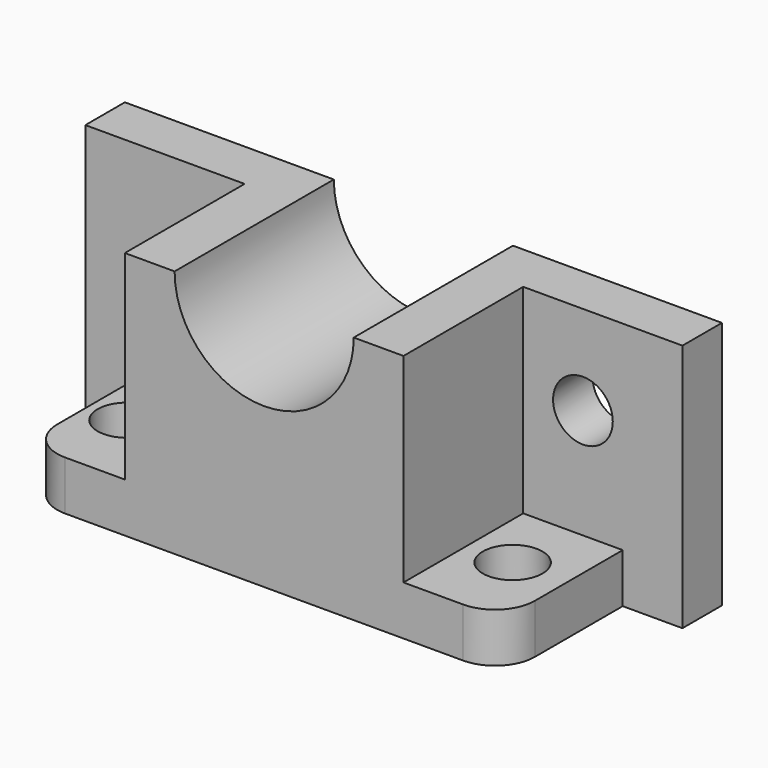
from build123d import *

# Parameters (mm, degrees)
F1_DEPTH  = 15.748
F3_DEPTH  = 47.752
F4_W      = 152.4
F4_H      = 15.748
F5_DEPTH  = 47.752
F6_R      = 9.525
F7_DEPTH  = 15.749
F8_R      = 12.7
F9_R      = 9.525
F10_DEPTH = 15.749
F11_R     = 9.525
F12_DEPTH = 15.749
F13_DEPTH = 25.4


with BuildPart() as f1:
    # F0 (on Front) → F1 (new body)
    with BuildSketch(Plane.XZ):
        with BuildLine():
            Line((-28.575, 0), (-95.25, 0))
            Line((-95.25, 0), (-95.25, -79.375))
            Line((-95.25, -79.375), (95.25, -79.375))
            Line((95.25, -79.375), (95.25, 0))
            Line((95.25, 0), (28.575, 0))
            ThreePointArc((28.575, 0), (0, -28.575), (-28.575, 0))
        make_face()
    extrude(amount=F1_DEPTH)

    # F2 (on face) → F3 (join)
    with BuildSketch(Plane.XZ.offset(15.748)):
        with BuildLine():
            Line((-28.575, 0), (-44.45, 0))
            Line((-44.45, 0), (-44.45, -79.375))
            Line((-44.45, -79.375), (44.45, -79.375))
            Line((44.45, -79.375), (44.45, 0))
            Line((44.45, 0), (28.575, 0))
            ThreePointArc((28.575, 0), (0, -28.575), (-28.575, 0))
        make_face()
    extrude(amount=F3_DEPTH)

    # F4 (on face) → F5 (join, through all)
    with BuildSketch(Plane.XZ.offset(63.5)):
        with Locations((0, -71.501)):
            Rectangle(F4_W, F4_H)
    extrude(amount=-F5_DEPTH)

    # F6 (on face) → F7 (cut, through all)
    with BuildSketch(Plane.XY.offset(-63.627)):
        with Locations((58.959488, -38.1)):
            Circle(F6_R)
    extrude(amount=-F7_DEPTH, mode=Mode.SUBTRACT)

    # F8
    f8_edges = [f1.edges().sort_by_distance(p)[0] for p in [
        (76.2, -63.5, -71.501),
        (-76.2, -63.5, -71.501),
    ]]
    fillet(f8_edges, radius=F8_R)

    # F9 (on face) → F10 (cut, through all)
    with BuildSketch(Plane.XY.offset(-63.627)):
        with Locations((-63.949496, -38.1)):
            Circle(F9_R)
    extrude(amount=-F10_DEPTH, mode=Mode.SUBTRACT)

    # F11 (on face) → F12 (cut, through all)
    with BuildSketch(Plane.XZ.offset(15.748)):
        with Locations((-63.5, -28.575)):
            Circle(F11_R)
        with Locations((63.5, -28.575)):
            Circle(F11_R)
    extrude(amount=-F12_DEPTH, mode=Mode.SUBTRACT)

    # F11 (on face) → F13 (cut)
    with BuildSketch(Plane.XZ.offset(15.748)):
        with Locations((-63.5, -28.575)):
            Circle(F11_R)
        with Locations((63.5, -28.575)):
            Circle(F11_R)
    extrude(amount=-F13_DEPTH, mode=Mode.SUBTRACT)


solid = f1.part
